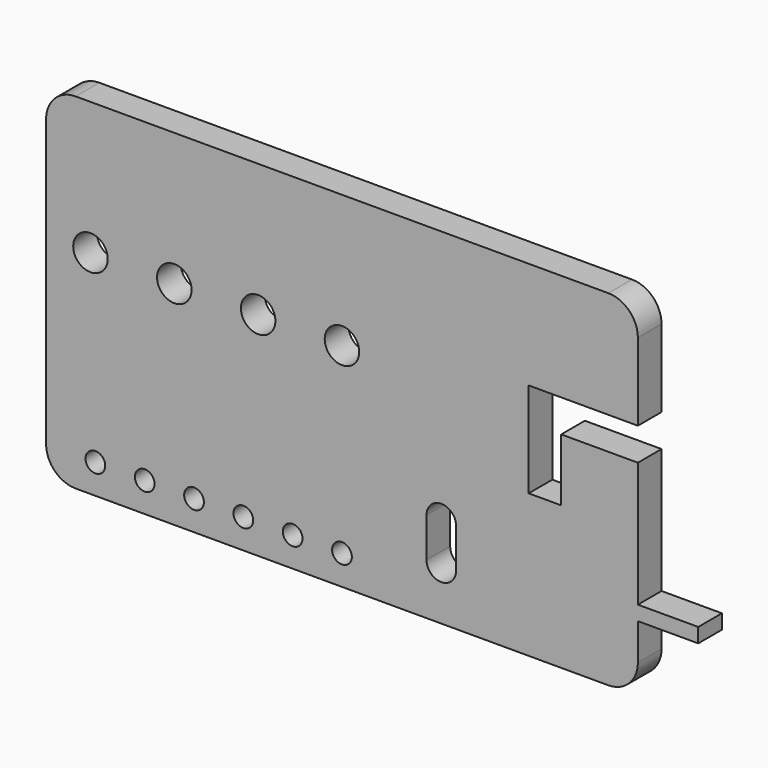
from build123d import *

# Parameters (mm, degrees)
F0_W     = 15.546926
F0_H     = 3.734995
F1_DEPTH = 7.62


with BuildPart() as f1:
    # F0 (on Front) → F1 (new body)
    with BuildSketch(Plane.XZ):
        with BuildLine():
            ThreePointArc((76.2, 36.83), (73.968154, 42.218154), (68.58, 44.45))
            Line((68.58, 44.45), (-68.58, 44.45))
            ThreePointArc((-68.58, 44.45), (-73.968154, 42.218154), (-76.2, 36.83))
            Line((-76.2, 36.83), (-76.2, 10.266046))
            Line((-76.2, 10.266046), (-76.2, -36.83))
            ThreePointArc((-76.2, -36.83), (-73.968154, -42.218154), (-68.58, -44.45))
            Line((-68.58, -44.45), (68.58, -44.45))
            ThreePointArc((68.58, -44.45), (73.968154, -42.218154), (76.2, -36.83))
            Line((76.2, -36.83), (76.2, -27.426558))
            Line((76.2, -27.426558), (76.2, -23.691563))
            Line((76.2, -23.691563), (76.2, 8.486843))
            Line((76.2, 8.486843), (56.458235, 8.486843))
            Line((56.458235, 8.486843), (56.458235, -7.602361))
            Line((56.458235, -7.602361), (48.076235, -7.602361))
            Line((48.076235, -7.602361), (48.076235, 8.486843))
            Line((48.076235, 8.486843), (48.076235, 16.868843))
            Line((48.076235, 16.868843), (56.458235, 16.868843))
            Line((56.458235, 16.868843), (76.2, 16.868843))
            Line((76.2, 16.868843), (76.2, 36.83))
        make_face()
        with BuildLine():
            ThreePointArc((-60.96, -36.83), (-63.5, -39.37), (-66.04, -36.83))
            ThreePointArc((-66.04, -36.83), (-63.5, -34.29), (-60.96, -36.83))
        make_face(mode=Mode.SUBTRACT)
        with BuildLine():
            ThreePointArc((-48.26, -36.83), (-50.8, -39.37), (-53.34, -36.83))
            ThreePointArc((-53.34, -36.83), (-50.8, -34.29), (-48.26, -36.83))
        make_face(mode=Mode.SUBTRACT)
        with BuildLine():
            ThreePointArc((-35.56, -36.83), (-38.1, -39.37), (-40.64, -36.83))
            ThreePointArc((-40.64, -36.83), (-38.1, -34.29), (-35.56, -36.83))
        make_face(mode=Mode.SUBTRACT)
        with BuildLine():
            ThreePointArc((-22.86, -36.83), (-25.4, -39.37), (-27.94, -36.83))
            ThreePointArc((-27.94, -36.83), (-25.4, -34.29), (-22.86, -36.83))
        make_face(mode=Mode.SUBTRACT)
        with BuildLine():
            ThreePointArc((-10.16, -36.83), (-12.7, -39.37), (-15.24, -36.83))
            ThreePointArc((-15.24, -36.83), (-12.7, -34.29), (-10.16, -36.83))
        make_face(mode=Mode.SUBTRACT)
        with BuildLine():
            ThreePointArc((2.54, -36.83), (0, -39.37), (-2.54, -36.83))
            ThreePointArc((-2.54, -36.83), (0, -34.29), (2.54, -36.83))
        make_face(mode=Mode.SUBTRACT)
        with BuildLine():
            ThreePointArc((29.386759, -31.245217), (25.576759, -35.055217), (21.766759, -31.245217))
            Line((21.766759, -31.245217), (21.766759, -21.085217))
            ThreePointArc((21.766759, -21.085217), (25.576759, -17.275217), (29.386759, -21.085217))
            Line((29.386759, -21.085217), (29.386759, -31.245217))
        make_face(mode=Mode.SUBTRACT)
        with BuildLine():
            ThreePointArc((-60.325, 10.266046), (-64.77, 5.821046), (-69.215, 10.266046))
            ThreePointArc((-69.215, 10.266046), (-64.77, 14.711046), (-60.325, 10.266046))
        make_face(mode=Mode.SUBTRACT)
        with BuildLine():
            ThreePointArc((-38.735, 10.266046), (-43.18, 5.821046), (-47.625, 10.266046))
            ThreePointArc((-47.625, 10.266046), (-43.18, 14.711046), (-38.735, 10.266046))
        make_face(mode=Mode.SUBTRACT)
        with BuildLine():
            ThreePointArc((-17.145, 10.266046), (-21.59, 5.821046), (-26.035, 10.266046))
            ThreePointArc((-26.035, 10.266046), (-21.59, 14.711046), (-17.145, 10.266046))
        make_face(mode=Mode.SUBTRACT)
        with BuildLine():
            ThreePointArc((4.445, 10.266046), (0, 5.821046), (-4.445, 10.266046))
            ThreePointArc((-4.445, 10.266046), (0, 14.711046), (4.445, 10.266046))
        make_face(mode=Mode.SUBTRACT)
        with Locations((83.973463, -25.559061)):
            Rectangle(F0_W, F0_H)
    extrude(amount=F1_DEPTH)


solid = f1.part
